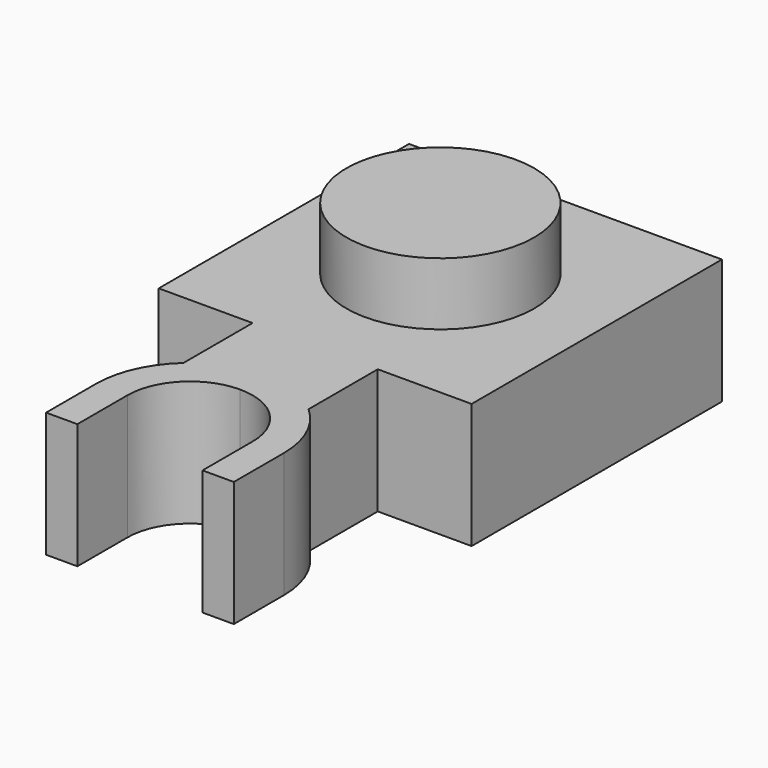
from build123d import *

# Parameters (mm, degrees)
F0_R     = 2.38125
F0_W     = 0.79375
F0_H     = 1.5875
F1_DEPTH = 3.175
F2_DEPTH = 4.7625


with BuildPart() as f1:
    # F0 (on Top) → F1 (new body)
    with BuildSketch(Plane.XY):
        Polygon((3.96875, 3.96875), (-3.96875, 3.96875), (-3.96875, -3.96875), (-1.5875, -3.96875), (-0.79375, -3.96875), (0, -3.96875), (0.79375, -3.96875), (1.5875, -3.96875), (3.96875, -3.96875), align=None)
        Circle(F0_R, mode=Mode.SUBTRACT)
        Polygon((-0.79375, -3.96875), (-1.5875, -3.96875), (-1.5875, -5.55625), (0, -5.55625), (0, -3.96875), align=None)
        Polygon((1.5875, -5.55625), (1.5875, -3.96875), (0.79375, -3.96875), (0, -3.96875), (0, -5.55625), align=None)
        with BuildLine():
            Line((1.5875, -6.162621), (1.5875, -5.55625))
            Line((1.5875, -5.55625), (0, -5.55625))
            ThreePointArc((0, -5.55625), (0.849683, -5.713002), (1.5875, -6.162621))
        make_face()
        with BuildLine():
            Line((0, -5.55625), (-1.5875, -5.55625))
            Line((-1.5875, -5.55625), (-1.5875, -6.162621))
            ThreePointArc((-1.5875, -6.162621), (-0.849683, -5.713002), (0, -5.55625))
        make_face()
        with BuildLine():
            Line((0, -6.35), (0, -5.55625))
            ThreePointArc((0, -5.55625), (-0.849683, -5.713002), (-1.5875, -6.162621))
            ThreePointArc((-1.5875, -6.162621), (-2.173774, -6.965359), (-2.38125, -7.9375))
            Line((-2.38125, -7.9375), (-1.5875, -7.9375))
            ThreePointArc((-1.5875, -7.9375), (-1.122532, -6.814968), (0, -6.35))
        make_face()
        with Locations((-1.984375, -8.73125)):
            Rectangle(F0_W, F0_H)
        with BuildLine():
            ThreePointArc((1.5875, -6.162621), (0.849683, -5.713002), (0, -5.55625))
            Line((0, -5.55625), (0, -6.35))
            ThreePointArc((0, -6.35), (1.122532, -6.814968), (1.5875, -7.9375))
            Line((1.5875, -7.9375), (2.38125, -7.9375))
            ThreePointArc((2.38125, -7.9375), (2.173774, -6.965359), (1.5875, -6.162621))
        make_face()
        with Locations((1.984375, -8.73125)):
            Rectangle(F0_W, F0_H)
    extrude(amount=F1_DEPTH)

    # F0 (on Top) → F2 (join)
    with BuildSketch(Plane.XY):
        Circle(F0_R)
    extrude(amount=F2_DEPTH)


solid = f1.part
